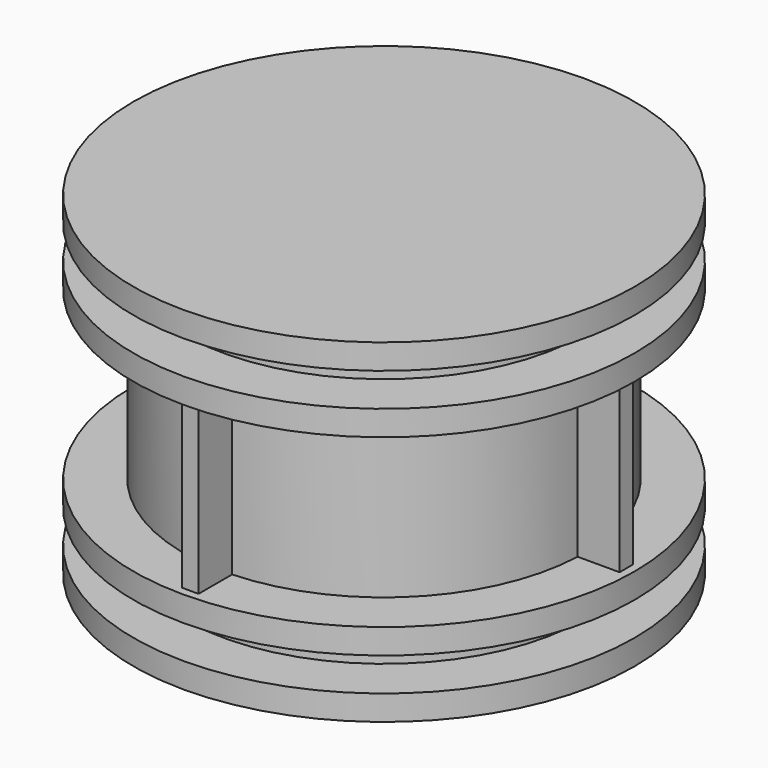
from build123d import *

# Parameters (mm, degrees)
CYLINDER_R               = 12
CYLINDER_DEPTH           = 20
CYLINDER001_R            = 15
CYLINDER001_DEPTH        = 1.5
CYLINDER002_R            = 15
CYLINDER002_DEPTH        = 1.5
CYLINDER003_R            = 15
CYLINDER003_DEPTH        = 1.5
CYLINDER004_R            = 15
CYLINDER004_DEPTH        = 1.5
BOX_W                    = 29
BOX_H                    = 1
BOX_DEPTH                = 10
BOX001_W                 = 29
BOX001_H                 = 1
BOX001_DEPTH             = 10
COMPOUND_PLACEMENT_ANGLE = 90


with BuildPart() as cylinder:
    # Cylinder → Cylinder (new body)
    with BuildSketch(Plane.XY):
        Circle(CYLINDER_R)
    extrude(amount=CYLINDER_DEPTH)


with BuildPart() as cylinder001:
    # Cylinder001 → Cylinder001 (new body)
    with BuildSketch(Plane.XY):
        Circle(CYLINDER001_R)
    extrude(amount=CYLINDER001_DEPTH)


with BuildPart() as cylinder002:
    # Cylinder002 → Cylinder002 (new body)
    with BuildSketch(Plane.XY.offset(3.5)):
        Circle(CYLINDER002_R)
    extrude(amount=CYLINDER002_DEPTH)


with BuildPart() as cylinder003:
    # Cylinder003 → Cylinder003 (new body)
    with BuildSketch(Plane.XY.offset(18.5)):
        Circle(CYLINDER003_R)
    extrude(amount=CYLINDER003_DEPTH)


with BuildPart() as cylinder004:
    # Cylinder004 → Cylinder004 (new body)
    with BuildSketch(Plane.XY.offset(15)):
        Circle(CYLINDER004_R)
    extrude(amount=CYLINDER004_DEPTH)


with BuildPart() as cube:
    # Box → Box (new body)
    with BuildSketch(Plane(origin=(-14.5, -0.5, 5), x_dir=(1, 0, 0), z_dir=(0, 0, 1))):
        with Locations((14.5, 0.5)):
            Rectangle(BOX_W, BOX_H)
    extrude(amount=BOX_DEPTH)


with BuildPart() as basewheel_hollowsides:
    # Box001 → Box001 (new body)
    with BuildSketch(Plane(origin=(-14.5, -0.5, 5), x_dir=(1, 0, 0), z_dir=(0, 0, 1))):
        with Locations((14.5, 0.5)):
            Rectangle(BOX001_W, BOX001_H)
    extrude(amount=BOX001_DEPTH)


with BuildPart() as basewheel_hollowsides_1:
    # Compound placement: moved
    add(basewheel_hollowsides.part.rotate(Axis((0, 0, 0), (0, 0, 1)), COMPOUND_PLACEMENT_ANGLE))

    # Fusion: union Cylinder, Cylinder001, Cylinder002, Cylinder003, Cylinder004, Cube
    add(cylinder.part)
    add(cylinder001.part)
    add(cylinder002.part)
    add(cylinder003.part)
    add(cylinder004.part)
    add(cube.part)


solid = basewheel_hollowsides_1.part
